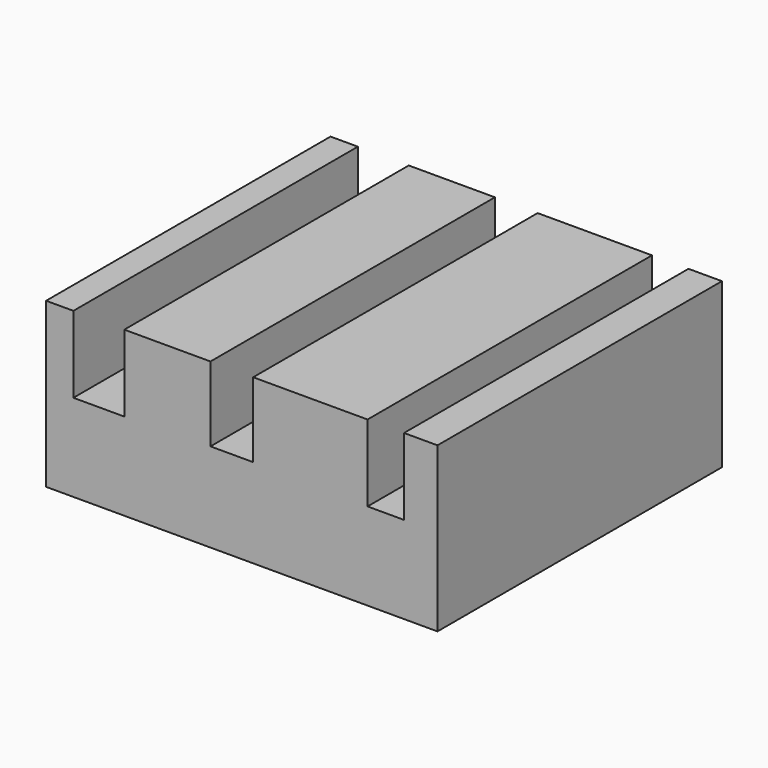
from build123d import *

# Parameters (mm, degrees)
F0_W     = 1.5748
F0_H     = 23.6800713465
F1_DEPTH = 110
F2_W     = 13.2167814299
F2_H     = 23.1293719262
F3_DEPTH = 129


with BuildPart() as f1:
    # F0 (on Front) → F1 (new body)
    with BuildSketch(Plane.XZ):
        with Locations((-30.4647867454, -11.8400356732)):
            Rectangle(F0_W, F0_H)
        Polygon((-63.3304193616, -23.6800713465), (-63.3304193616, 0), (-71.7838928103, 0), (-71.7838928103, -50.6884083152), (49.3118092418, -50.6884083152), (49.3118092418, 0), (38.9619767666, 0), (38.9619767666, -23.6800713465), (27.6726409793, -23.6800713465), (27.6726409793, 0), (-29.6773867454, 0), (-29.6773867454, -23.6800713465), (-31.2521867454, -23.6800713465), (-31.2521867454, 0), (-47.5824193616, 0), (-47.5824193616, -23.6800713465), align=None)
    extrude(amount=F1_DEPTH)

    # F2 (on face) → F3 (cut)
    with BuildSketch(Plane.XZ.offset(110)):
        with Locations((-14.3181835301, -11.5646859631)):
            Rectangle(F2_W, F2_H)
    extrude(amount=-F3_DEPTH, mode=Mode.SUBTRACT)


solid = f1.part
